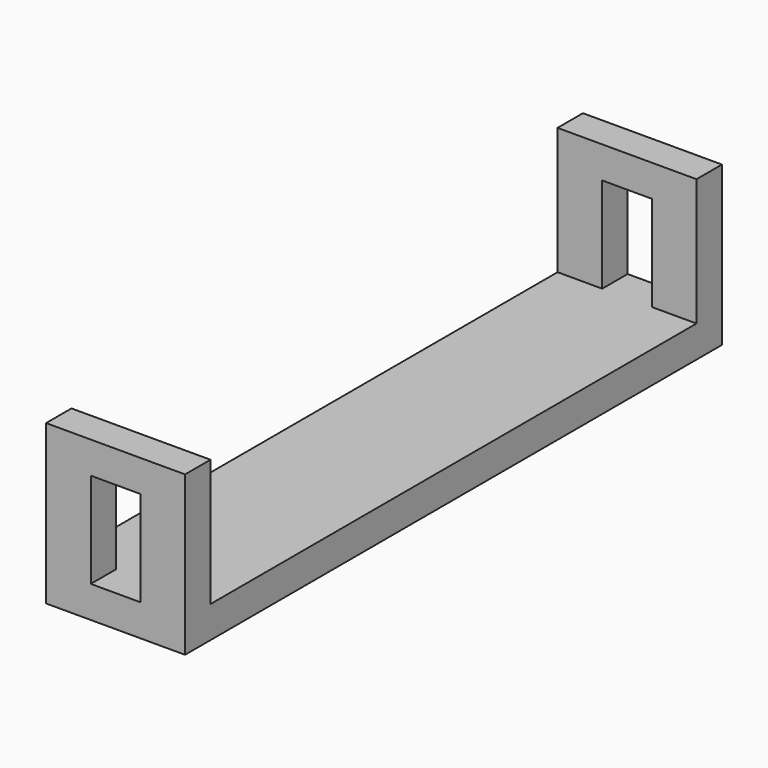
from build123d import *

# Parameters (mm, degrees)
F0_W      = 35
F0_H      = 76.5
F1_DEPTH  = 8
F1_FACE_W = 35
F1_FACE_H = 8
F2_W      = 35
F2_H      = 40
F3_DEPTH  = 8
F4_W      = 12.5
F4_H      = 24
F5_DEPTH  = 84.501


with BuildPart() as f1:
    # F0 (on Top) → F1 (new body)
    with BuildSketch(Plane.XY):
        with Locations((0, -38.25)):
            Rectangle(F0_W, F0_H)
    extrude(amount=F1_DEPTH)

    # F1_face (on face) + F2 (on face) → F3 (join)
    with BuildSketch(Plane(origin=(0, -76.5, 4), x_dir=(1, 0, 0), z_dir=(0, -1, 0))):
        Rectangle(F1_FACE_W, F1_FACE_H)
        Rectangle(F1_FACE_W, F1_FACE_H)
    with BuildSketch(Plane.XZ.offset(76.5)):
        with Locations((0, 20)):
            Rectangle(F2_W, F2_H)
    extrude(amount=F3_DEPTH)

    # F4 (on face) → F5 (cut, through all)
    with BuildSketch(Plane.XZ.offset(84.5)):
        with Locations((0, 20)):
            Rectangle(F4_W, F4_H)
    extrude(amount=-F5_DEPTH, mode=Mode.SUBTRACT)

    # F6: F1 across face


with BuildPart() as f1_1:
    add(f1.part)
    add(f1.part.mirror(Plane(origin=(0, 0, 4), x_dir=(-1, 0, 0), z_dir=(0, 1, 0))))


solid = f1_1.part
